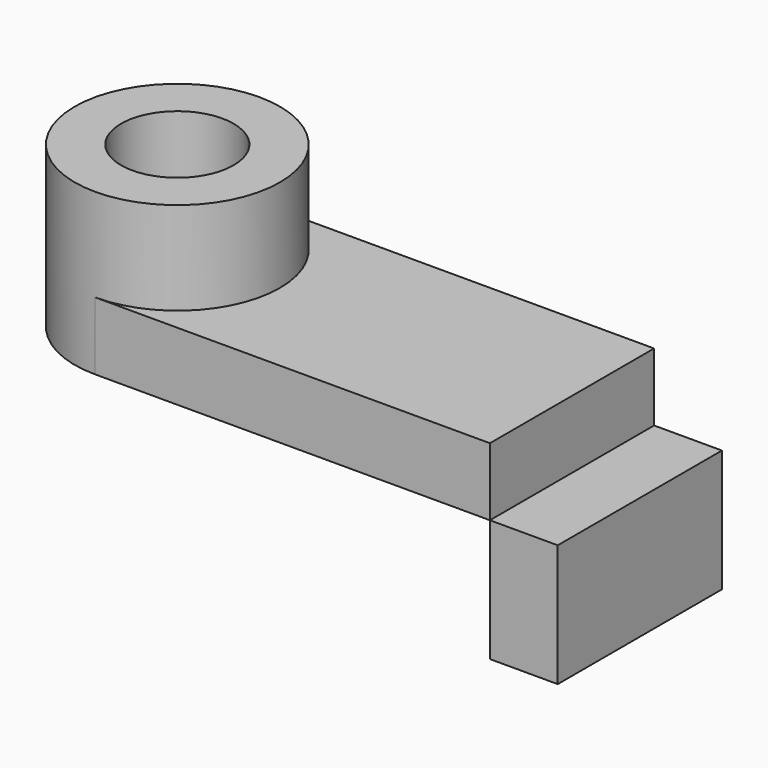
from build123d import *

# Parameters (mm, degrees)
F1_DEPTH = 25.4
F2_DEPTH = 60.206823051
F3_R     = 19.6934339569
F4_DEPTH = 25.4
F5_R     = 21.0861042144
F6_DEPTH = 62.1649548411
F7_W     = 76.8664777279
F7_H     = 45.7835830748
F8_DEPTH = 25.4


with BuildPart() as f1:
    # F0 (on Top) → F1 (new body)
    with BuildSketch(Plane.XY):
        with BuildLine():
            ThreePointArc((-73.9100724459, 38.4332388639), (-112.3433113098, 0), (-73.9100724459, -38.4332388639))
            Line((-73.9100724459, -38.4332388639), (-73.9100724459, 38.4332388639))
        make_face()
        with BuildLine():
            Line((-73.9100724459, -38.4332388639), (73.9100724459, -38.4332388639))
            Line((73.9100724459, -38.4332388639), (73.9100724459, 38.4332388639))
            Line((73.9100724459, 38.4332388639), (-73.9100724459, 38.4332388639))
            ThreePointArc((-73.9100724459, 38.4332388639), (-46.7336686222, 27.1764038237), (-35.4768335819, 0))
            ThreePointArc((-35.4768335819, 0), (-46.7336686222, -27.1764038237), (-73.9100724459, -38.4332388639))
        make_face()
        with BuildLine():
            Line((-73.9100724459, 38.4332388639), (-73.9100724459, -38.4332388639))
            ThreePointArc((-73.9100724459, -38.4332388639), (-46.7336686222, -27.1764038237), (-35.4768335819, 0))
            ThreePointArc((-35.4768335819, 0), (-46.7336686222, 27.1764038237), (-73.9100724459, 38.4332388639))
        make_face()
    extrude(amount=F1_DEPTH)

    # F0 (on Top) → F2 (join)
    with BuildSketch(Plane.XY):
        with BuildLine():
            ThreePointArc((-73.9100724459, 38.4332388639), (-112.3433113098, 0), (-73.9100724459, -38.4332388639))
            Line((-73.9100724459, -38.4332388639), (-73.9100724459, 38.4332388639))
        make_face()
        with BuildLine():
            Line((-73.9100724459, 38.4332388639), (-73.9100724459, -38.4332388639))
            ThreePointArc((-73.9100724459, -38.4332388639), (-46.7336686222, -27.1764038237), (-35.4768335819, 0))
            ThreePointArc((-35.4768335819, 0), (-46.7336686222, 27.1764038237), (-73.9100724459, 38.4332388639))
        make_face()
    extrude(amount=F2_DEPTH)

    # F3 (on face) → F4 (cut)
    with BuildSketch(Plane.XY):
        with Locations((-73.3075961471, 0)):
            Circle(F3_R)
    extrude(amount=-F4_DEPTH, mode=Mode.SUBTRACT)

    # F5 (on face) → F6 (cut)
    with BuildSketch(Plane.XY.offset(60.206823051)):
        with Locations((-73.9100724459, 0)):
            Circle(F5_R)
    extrude(amount=-F6_DEPTH, mode=Mode.SUBTRACT)


with BuildPart() as f8:
    # F7 (on face) → F8 (new body)
    with BuildSketch(Plane.YZ.offset(73.9100724459)):
        with Locations((0, -22.8917915374)):
            Rectangle(F7_W, F7_H)
    extrude(amount=F8_DEPTH)


solid = Compound([f1.part, f8.part])
